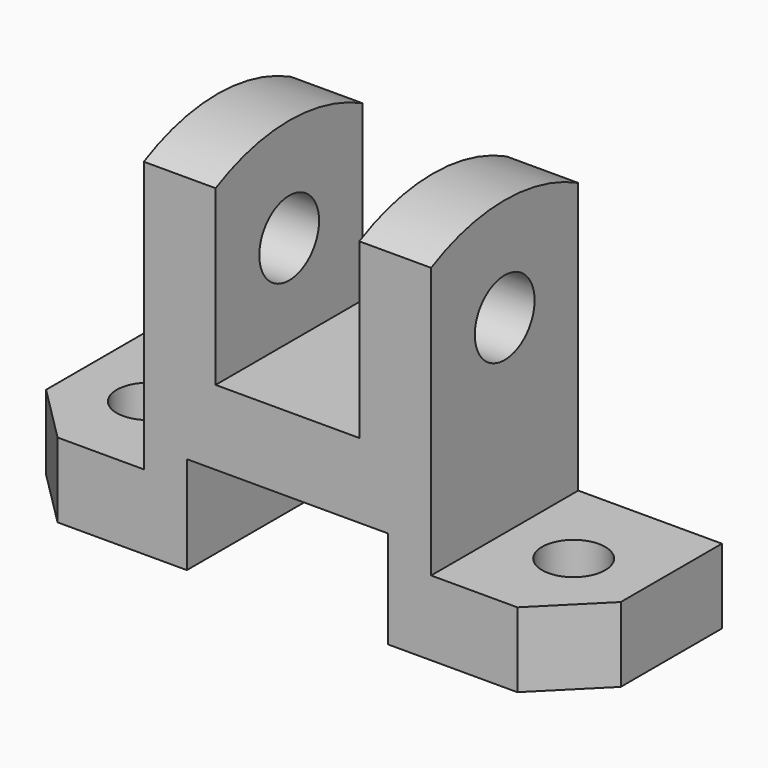
from build123d import *

# Parameters (mm, degrees)
F1_DEPTH = 50
F2_W     = 35
F2_H     = 17
F2_W_2   = 25
F2_H_2   = 40.236561
F2_H_3   = 60.406679
F3_DEPTH = 32.001
F4_R     = 5.5
F5_DEPTH = 13.001
F6_R     = 5.5
F7_DEPTH = 13.001
F8_R     = 6.5
F9_DEPTH = 75.001


with BuildPart() as f1:
    # F0 (on Right) → F1 (new body, symmetric)
    with BuildSketch(Plane.YZ):
        with BuildLine():
            Line((-16, 60.128765), (-16, 0))
            Line((-16, 0), (16, 0))
            Line((16, 0), (16, 60.128765))
            ThreePointArc((16, 60.128765), (0, 64), (-16, 60.128765))
        make_face()
    extrude(amount=F1_DEPTH, both=True)

    # F2 (on face) → F3 (cut, through all)
    with BuildSketch(Plane.XZ.offset(16)):
        with Locations((0, 8.5)):
            Rectangle(F2_W, F2_H)
        with Locations((0, 50.11828)):
            Rectangle(F2_W_2, F2_H_2)
        with Locations((-37.5, 43.203339)):
            Rectangle(F2_W_2, F2_H_3)
        with Locations((37.5, 43.203339)):
            Rectangle(F2_W_2, F2_H_3)
    extrude(amount=-F3_DEPTH, mode=Mode.SUBTRACT)

    # F4 (on face) → F5 (cut, through all)
    with BuildSketch(Plane.XY.offset(13)):
        Polygon((-40, -16), (-50, -6), (-50, -16), align=None)
        with Locations((-37, 0)):
            Circle(F4_R)
    extrude(amount=-F5_DEPTH, mode=Mode.SUBTRACT)

    # F6 (on face) → F7 (cut, through all)
    with BuildSketch(Plane.XY.offset(13)):
        Polygon((50, -6), (40, -16), (50, -16), align=None)
        with Locations((37, 0)):
            Circle(F6_R)
    extrude(amount=-F7_DEPTH, mode=Mode.SUBTRACT)

    # F8 (on face) → F9 (cut, through all)
    with BuildSketch(Plane.YZ.offset(25)):
        with Locations((0, 46)):
            Circle(F8_R)
    extrude(amount=-F9_DEPTH, mode=Mode.SUBTRACT)


solid = f1.part
